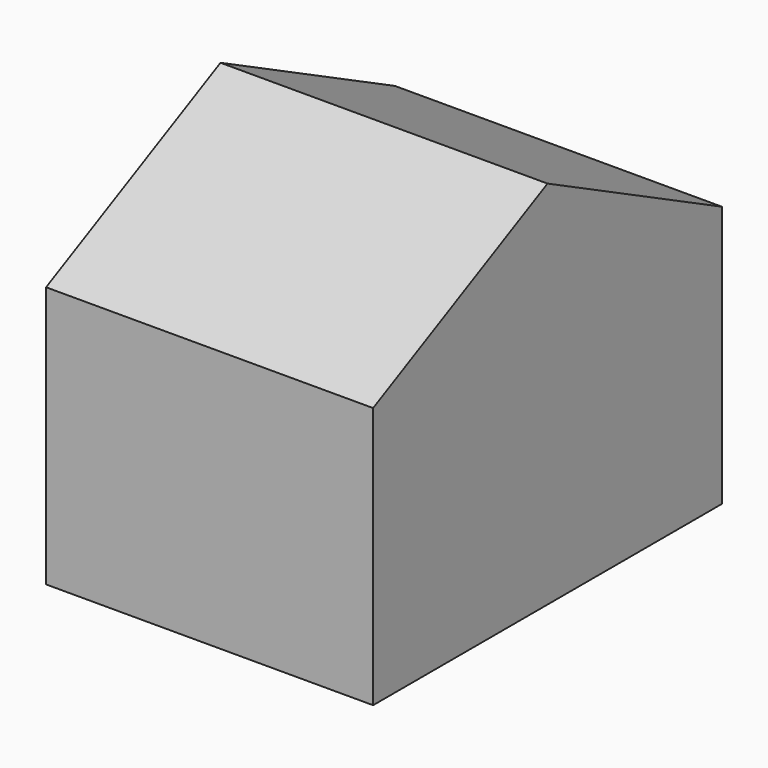
from build123d import *

# Parameters (mm, degrees)
F0_W     = 177.8
F0_H     = 177.8
F0_W_2   = 406.4
F0_H_2   = 203.2
F0_W_3   = 129.3622
F1_DEPTH = 762


with BuildPart() as f1:
    # F0 (on Right) → F1 (new body)
    with BuildSketch(Plane.YZ):
        Polygon((508, 0), (0, 0), (-508, 0), (-508, -609.6), (-40.1154235005, -609.6), (-40.1154235005, -431.8), (89.2467764995, -431.8), (89.2467764995, -609.6), (508, -609.6), align=None)
        with Locations((-266.7, -266.7)):
            Rectangle(F0_W, F0_H, mode=Mode.SUBTRACT)
        with Locations((254, -177.8)):
            Rectangle(F0_W_2, F0_H_2, mode=Mode.SUBTRACT)
        with Locations((254, -177.8)):
            Rectangle(F0_W_2, F0_H_2)
        Polygon((-508, 0), (0, 0), (0, 254), align=None)
        Polygon((0, 254), (0, 0), (508, 0), align=None)
        with Locations((-266.7, -266.7)):
            Rectangle(F0_W, F0_H)
        with Locations((24.5656764995, -520.7)):
            Rectangle(F0_W_3, F0_H)
    extrude(amount=F1_DEPTH)


solid = f1.part
